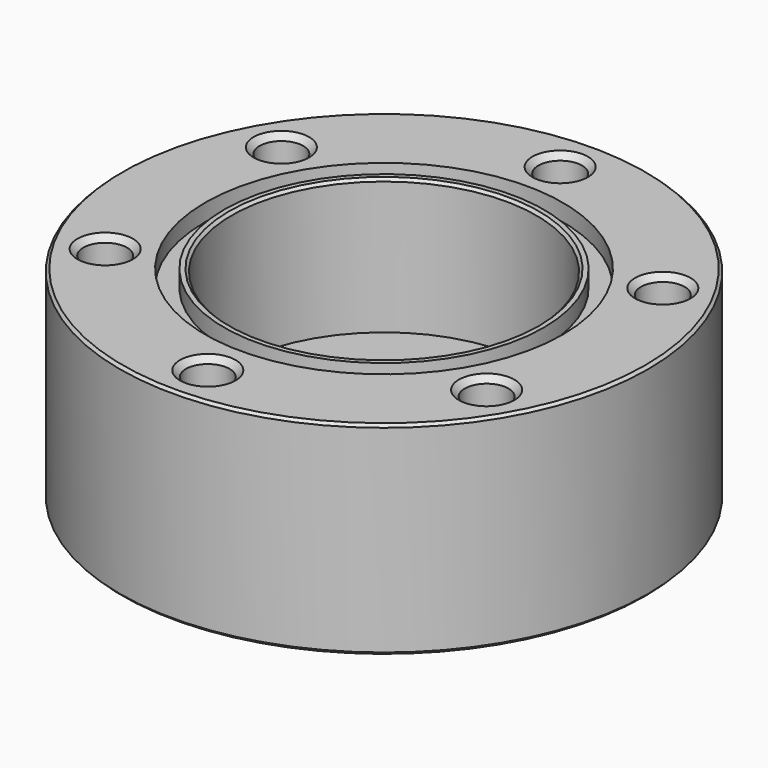
from build123d import *

# Parameters (mm, degrees)
CYLINDER_R       = 24.765
CYLINDER_DEPTH   = 19.05
HOLE_D           = 4.1
HOLE_DEPTH       = 14.986
HOLE_CSINK_D     = 5.207
HOLE_CSINK_ANGLE = 90
HOLE_TIPS_R      = 2.05
SKETCH001_R      = 14.2875
POCKET_DEPTH     = 12.7
SKETCH002_R      = 16.764
SKETCH002_R_2    = 14.986
POCKET001_DEPTH  = 1.6002
CHAMFER_SIZE     = 0.254


with BuildPart() as part:
    # Cylinder → Cylinder (join)
    with BuildSketch(Plane.XY):
        Circle(CYLINDER_R)
    extrude(amount=CYLINDER_DEPTH)

    # Hole
    with Locations(Plane.XY.offset(19.05)):
        with Locations((0, 20.6502), (17.883598, 10.3251), (17.883598, -10.3251), (0, -20.6502), (-17.883598, -10.3251), (-17.883598, 10.3251)):
            CounterSinkHole(HOLE_D / 2, HOLE_CSINK_D / 2, depth=HOLE_DEPTH, counter_sink_angle=HOLE_CSINK_ANGLE)

    # Hole tips → Hole tip 1 section 0
    with BuildSketch(Plane.XY.offset(4.064), mode=Mode.PRIVATE) as hole_tip_1_s0:
        with Locations((0, 20.6502)):
            Circle(HOLE_TIPS_R)
    loft([hole_tip_1_s0.sketch, Vertex(0, 20.6502, 2.832236)], mode=Mode.SUBTRACT)

    # Hole tips → Hole tip 2 section 0
    with BuildSketch(Plane.XY.offset(4.064), mode=Mode.PRIVATE) as hole_tip_2_s0:
        with Locations((17.883598, 10.3251)):
            Circle(HOLE_TIPS_R)
    loft([hole_tip_2_s0.sketch, Vertex(17.883598, 10.3251, 2.832236)], mode=Mode.SUBTRACT)

    # Hole tips → Hole tip 3 section 0
    with BuildSketch(Plane.XY.offset(4.064), mode=Mode.PRIVATE) as hole_tip_3_s0:
        with Locations((17.883598, -10.3251)):
            Circle(HOLE_TIPS_R)
    loft([hole_tip_3_s0.sketch, Vertex(17.883598, -10.3251, 2.832236)], mode=Mode.SUBTRACT)

    # Hole tips → Hole tip 4 section 0
    with BuildSketch(Plane.XY.offset(4.064), mode=Mode.PRIVATE) as hole_tip_4_s0:
        with Locations((0, -20.6502)):
            Circle(HOLE_TIPS_R)
    loft([hole_tip_4_s0.sketch, Vertex(0, -20.6502, 2.832236)], mode=Mode.SUBTRACT)

    # Hole tips → Hole tip 5 section 0
    with BuildSketch(Plane.XY.offset(4.064), mode=Mode.PRIVATE) as hole_tip_5_s0:
        with Locations((-17.883598, -10.3251)):
            Circle(HOLE_TIPS_R)
    loft([hole_tip_5_s0.sketch, Vertex(-17.883598, -10.3251, 2.832236)], mode=Mode.SUBTRACT)

    # Hole tips → Hole tip 6 section 0
    with BuildSketch(Plane.XY.offset(4.064), mode=Mode.PRIVATE) as hole_tip_6_s0:
        with Locations((-17.883598, 10.3251)):
            Circle(HOLE_TIPS_R)
    loft([hole_tip_6_s0.sketch, Vertex(-17.883598, 10.3251, 2.832236)], mode=Mode.SUBTRACT)

    # Sketch001 (on Face2 of Hole) → Pocket (cut)
    with BuildSketch(Plane.XY.offset(19.05)):
        Circle(SKETCH001_R)
    extrude(amount=-POCKET_DEPTH, mode=Mode.SUBTRACT)

    # Sketch002 (on Face2 of Pocket) → Pocket001 (cut)
    with BuildSketch(Plane.XY.offset(19.05)):
        Circle(SKETCH002_R)
        Circle(SKETCH002_R_2, mode=Mode.SUBTRACT)
    extrude(amount=-POCKET001_DEPTH, mode=Mode.SUBTRACT)

    # Chamfer
    chamfer_edges = [part.edges().sort_by_distance(p)[0] for p in [
        (-14.2875, 0, 19.05),
        (-24.765, 0, 19.05),
        (-24.765, 0, 0),
    ]]
    chamfer(chamfer_edges, length=CHAMFER_SIZE)


solid = part.part
